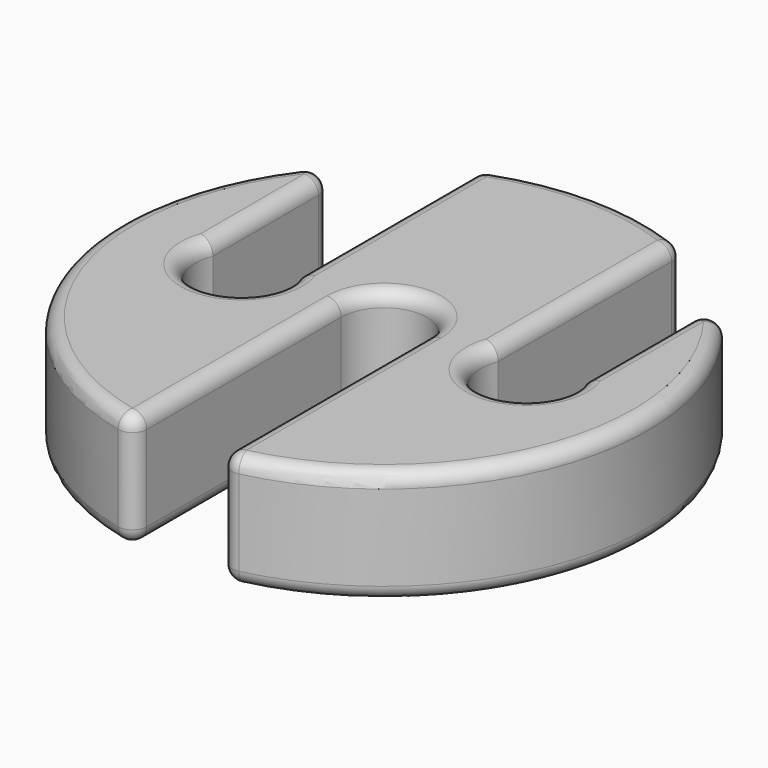
from build123d import *

# Parameters (mm, degrees)
CYLINDER001_R     = 3.25
CYLINDER001_DEPTH = 10
CYLINDER002_R     = 3.25
CYLINDER002_DEPTH = 10
BOX_W             = 6
BOX_H             = 20
BOX_DEPTH         = 10
BOX001_W          = 6
BOX001_H          = 20
BOX001_DEPTH      = 10
BOX003_W          = 6
BOX003_H          = 20
BOX003_DEPTH      = 10
CYLINDER003_R     = 3.25
CYLINDER003_DEPTH = 10
CYLINDER004_R     = 3
CYLINDER004_DEPTH = 10
CYLINDER_R        = 18.5
CYLINDER_DEPTH    = 8
FILLET_R          = 1


with BuildPart() as cylinder001:
    # Cylinder001 → Cylinder001 (new body)
    with BuildSketch(Plane(origin=(10, 0, 0), x_dir=(1, 0, 0), z_dir=(0, 0, 1))):
        Circle(CYLINDER001_R)
    extrude(amount=CYLINDER001_DEPTH)


with BuildPart() as cylinder002:
    # Cylinder002 → Cylinder002 (new body)
    with BuildSketch(Plane(origin=(-10, 0, 0), x_dir=(1, 0, 0), z_dir=(0, 0, 1))):
        Circle(CYLINDER002_R)
    extrude(amount=CYLINDER002_DEPTH)


with BuildPart() as cube:
    # Box → Box (new body)
    with BuildSketch(Plane(origin=(7, 0, 0), x_dir=(1, 0, 0), z_dir=(0, 0, 1))):
        with Locations((3, 10)):
            Rectangle(BOX_W, BOX_H)
    extrude(amount=BOX_DEPTH)


with BuildPart() as cube001:
    # Box001 → Box001 (new body)
    with BuildSketch(Plane(origin=(-13, 0, 0), x_dir=(1, 0, 0), z_dir=(0, 0, 1))):
        with Locations((3, 10)):
            Rectangle(BOX001_W, BOX001_H)
    extrude(amount=BOX001_DEPTH)


with BuildPart() as cube003:
    # Box003 → Box003 (new body)
    with BuildSketch(Plane(origin=(-3, -20, 0), x_dir=(1, 0, 0), z_dir=(0, 0, 1))):
        with Locations((3, 10)):
            Rectangle(BOX003_W, BOX003_H)
    extrude(amount=BOX003_DEPTH)


with BuildPart() as cylinder003:
    # Cylinder003 → Cylinder003 (new body)
    with BuildSketch(Plane(origin=(10, 0, 0), x_dir=(1, 0, 0), z_dir=(0, 0, 1))):
        Circle(CYLINDER003_R)
    extrude(amount=CYLINDER003_DEPTH)


with BuildPart() as fusion:
    # Cylinder004 → Cylinder004 (new body)
    with BuildSketch(Plane.XY):
        Circle(CYLINDER004_R)
    extrude(amount=CYLINDER004_DEPTH)

    # Fusion: union Cylinder001, Cylinder002, Cube, Cube001, Cube003, Cylinder003
    add(cylinder001.part)
    add(cylinder002.part)
    add(cube.part)
    add(cube001.part)
    add(cube003.part)
    add(cylinder003.part)


with BuildPart() as fillet_body:
    # Cylinder → Cylinder (new body)
    with BuildSketch(Plane.XY):
        Circle(CYLINDER_R)
    extrude(amount=CYLINDER_DEPTH)

    # Cut: cut Fusion
    add(fusion.part, mode=Mode.SUBTRACT)

    # Fillet
    fillet_edges = [fillet_body.edges().sort_by_distance(p)[0] for p in [
        (17.06971, 7.132671, 0),
        (13, 13.162447, 4),
        (17.06971, 7.132671, 8),
        (14.102305, -11.97393, 0),
        (3, -9.127568, 0),
        (0, 3, 0),
        (-3, -9.127568, 0),
        (-17.62856, -5.611049, 0),
        (-13, 7.206223, 0),
        (-10.637377, -3.186887, 0),
        (-6.813113, 0.637377, 0),
        (-7, 9.187272, 0),
        (0, 18.5, 0),
        (7, 9.187272, 0),
        (9.362623, -3.186887, 0),
        (13.186887, 0.637377, 0),
        (13, 7.206223, 0),
        (13, 7.206223, 8),
        (14.102305, -11.97393, 8),
        (3, -9.127568, 8),
        (0, 3, 8),
        (-3, -9.127568, 8),
        (-17.62856, -5.611049, 8),
        (-13, 7.206223, 8),
        (-10.637377, -3.186887, 8),
        (-6.813113, 0.637377, 8),
        (-7, 9.187272, 8),
        (0, 18.5, 8),
        (7, 9.187272, 8),
        (9.362623, -3.186887, 8),
        (3, -18.255136, 4),
        (-3, -18.255136, 4),
        (-13, 13.162447, 4),
        (-7, 17.124544, 4),
        (7, 17.124544, 4),
    ]]
    fillet(fillet_edges, radius=FILLET_R)


solid = fillet_body.part
